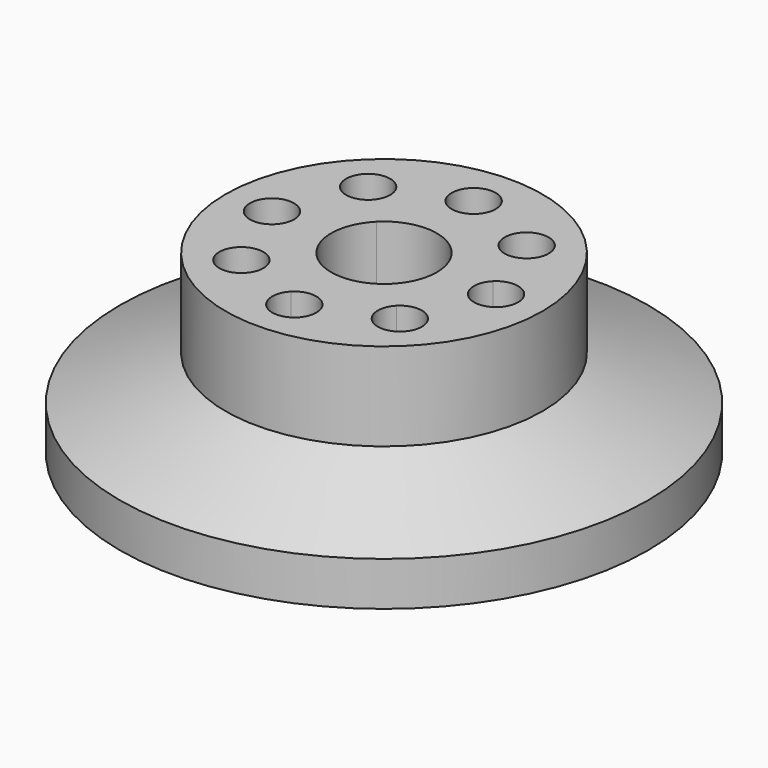
from build123d import *

# Parameters (mm, degrees)
F0_R     = 30
F1_DEPTH = 20
F2_SIZE2 = 5
F2_SIZE  = 12
F3_DEPTH = 20
F5_DEPTH = 50
F6_DEPTH = 10
F7_DEPTH = 10


with BuildPart() as f1:
    # F0 (on Top) → F1 (new body)
    with BuildSketch(Plane.XY):
        Circle(F0_R)
    extrude(amount=F1_DEPTH)

    # F2
    f2_edges = [f1.edges().sort_by_distance(p)[0] for p in [
        (-30, 0, 20),
    ]]
    f2_side = f1.faces().sort_by_distance((0, 0, 20))[0]
    chamfer(f2_edges, length=F2_SIZE, length2=F2_SIZE2, reference=f2_side)

    # F3 (add): a face of the model
    f3_faces = [f1.faces().sort_by_distance(p)[0] for p in [
        (0, 0, 20),
    ]]
    extrude(f3_faces, amount=F3_DEPTH)

    # F4 (on face) → F5 (cut)
    with BuildSketch(Plane.XY.offset(40)):
        with BuildLine():
            Line((-12.73, 0), (-10.962233047, 1.767766953))
            ThreePointArc((-10.962233047, 1.767766953), (-15.23, 0), (-10.962233047, -1.767766953))
            Line((-10.962233047, -1.767766953), (-12.73, 0))
        make_face()
        with BuildLine():
            ThreePointArc((-10.23, 0), (-10.4203011687, 0.9567085809), (-10.962233047, 1.767766953))
            Line((-10.962233047, 1.767766953), (-12.73, 0))
            Line((-12.73, 0), (-10.962233047, -1.767766953))
            ThreePointArc((-10.962233047, -1.767766953), (-10.4203011687, -0.9567085809), (-10.23, 0))
        make_face()
        with BuildLine():
            Line((0, 0), (4.2426406871, 4.2426406871))
            ThreePointArc((4.2426406871, 4.2426406871), (0, 6), (-4.2426406871, 4.2426406871))
            Line((-4.2426406871, 4.2426406871), (0, 0))
        make_face()
        with BuildLine():
            Line((0, 0), (-4.2426406871, 4.2426406871))
            ThreePointArc((-4.2426406871, 4.2426406871), (-6, 0), (-4.2426406871, -4.2426406871))
            Line((-4.2426406871, -4.2426406871), (0, 0))
        make_face()
        with BuildLine():
            ThreePointArc((-4.2426406871, -4.2426406871), (0, -6), (4.2426406871, -4.2426406871))
            Line((4.2426406871, -4.2426406871), (0, 0))
            Line((0, 0), (-4.2426406871, -4.2426406871))
        make_face()
        with BuildLine():
            ThreePointArc((4.2426406871, -4.2426406871), (5.5432771951, -2.2961005942), (6, 0))
            ThreePointArc((6, 0), (5.5432771951, 2.2961005942), (4.2426406871, 4.2426406871))
            Line((4.2426406871, 4.2426406871), (0, 0))
            Line((0, 0), (4.2426406871, -4.2426406871))
        make_face()
        with BuildLine():
            ThreePointArc((-1.767766953, 10.962233047), (0, 10.23), (1.767766953, 10.962233047))
            Line((1.767766953, 10.962233047), (0, 12.73))
            Line((0, 12.73), (-1.767766953, 10.962233047))
        make_face()
        with BuildLine():
            Line((0, 12.73), (1.767766953, 10.962233047))
            ThreePointArc((1.767766953, 10.962233047), (2.3096988313, 11.7732914191), (2.5, 12.73))
            ThreePointArc((2.5, 12.73), (-0.9567085809, 15.0396988313), (-1.767766953, 10.962233047))
            Line((-1.767766953, 10.962233047), (0, 12.73))
        make_face()
        with BuildLine():
            Line((12.73, 0), (10.962233047, 1.767766953))
            ThreePointArc((10.962233047, 1.767766953), (10.23, 0), (10.962233047, -1.767766953))
            Line((10.962233047, -1.767766953), (12.73, 0))
        make_face()
        with BuildLine():
            ThreePointArc((15.23, 0), (13.6867085809, 2.3096988313), (10.962233047, 1.767766953))
            Line((10.962233047, 1.767766953), (12.73, 0))
            Line((12.73, 0), (10.962233047, -1.767766953))
            ThreePointArc((10.962233047, -1.767766953), (13.6867085809, -2.3096988313), (15.23, 0))
        make_face()
        with BuildLine():
            Line((0, -12.73), (1.767766953, -10.962233047))
            ThreePointArc((1.767766953, -10.962233047), (0, -10.23), (-1.767766953, -10.962233047))
            Line((-1.767766953, -10.962233047), (0, -12.73))
        make_face()
        with BuildLine():
            ThreePointArc((2.5, -12.73), (2.3096988313, -11.7732914191), (1.767766953, -10.962233047))
            Line((1.767766953, -10.962233047), (0, -12.73))
            Line((0, -12.73), (-1.767766953, -10.962233047))
            ThreePointArc((-1.767766953, -10.962233047), (-0.9567085809, -15.0396988313), (2.5, -12.73))
        make_face()
        with BuildLine():
            ThreePointArc((11.5014693245, 9.0014693245), (8.0447607436, 11.3111681558), (7.2337023715, 7.2337023715))
            ThreePointArc((7.2337023715, 7.2337023715), (9.9581779054, 6.6917704932), (11.5014693245, 9.0014693245))
        make_face()
        with BuildLine():
            ThreePointArc((-6.5014693245, 9.0014693245), (-11.3111681558, 9.9581779054), (-7.2337023715, 7.2337023715))
            ThreePointArc((-7.2337023715, 7.2337023715), (-6.6917704932, 8.0447607436), (-6.5014693245, 9.0014693245))
        make_face()
        with BuildLine():
            ThreePointArc((-6.5014693245, -9.0014693245), (-6.6917704932, -8.0447607436), (-7.2337023715, -7.2337023715))
            ThreePointArc((-7.2337023715, -7.2337023715), (-11.3111681558, -9.9581779054), (-6.5014693245, -9.0014693245))
        make_face()
        with BuildLine():
            ThreePointArc((11.5014693245, -9.0014693245), (9.9581779054, -6.6917704932), (7.2337023715, -7.2337023715))
            ThreePointArc((7.2337023715, -7.2337023715), (8.0447607436, -11.3111681558), (11.5014693245, -9.0014693245))
        make_face()
    extrude(amount=-F5_DEPTH, mode=Mode.SUBTRACT)

    # F6 (cut): a face of the model
    f6_faces = [f1.faces().sort_by_distance(p)[0] for p in [
        (-17.4908831175, 0, 40),
    ]]
    extrude(f6_faces, amount=-F6_DEPTH, mode=Mode.SUBTRACT)

    # F7 (cut): a face of the model
    f7_faces = [f1.faces().sort_by_distance(p)[0] for p in [
        (-29.1514718626, 0, 0),
    ]]
    extrude(f7_faces, amount=-F7_DEPTH, mode=Mode.SUBTRACT)


solid = f1.part
